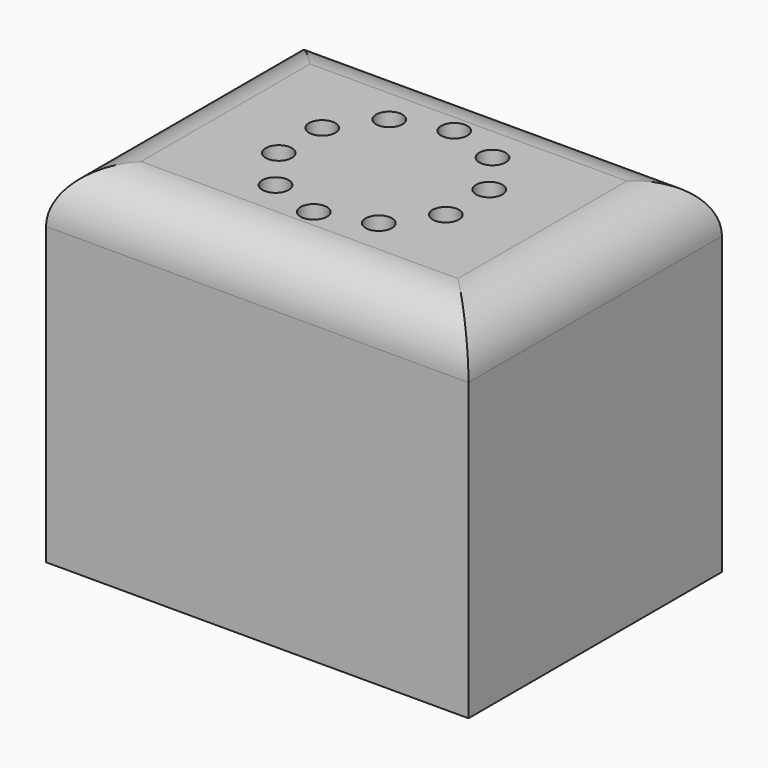
from build123d import *

# Parameters (mm, degrees)
F0_W     = 101.6
F0_H     = 76.2
F1_DEPTH = 83.82
F2_R     = 12.7
F5_D     = 6.35


with BuildPart() as f1:
    # F0 (on Top) → F1 (new body)
    with BuildSketch(Plane.XY):
        Rectangle(F0_W, F0_H)
    extrude(amount=F1_DEPTH)

    # F2
    f2_edges = [f1.edges().sort_by_distance(p)[0] for p in [
        (0, -38.1, 83.82),
        (50.8, 0, 83.82),
        (0, 38.1, 83.82),
        (-50.8, 0, 83.82),
    ]]
    fillet(f2_edges, radius=F2_R)

    # F5 (through all)
    with Locations(Plane.XY.offset(83.82)):
        with Locations((12.416681, -17.090095), (0, -21.124519), (-12.416681, -17.090095), (-20.090612, -6.527835), (-20.090612, 6.527835), (-12.416681, 17.090095), (0, 21.124519), (12.416681, 17.090095), (20.090612, 6.527835), (20.090612, -6.527835)):
            Hole(F5_D / 2)


solid = f1.part
